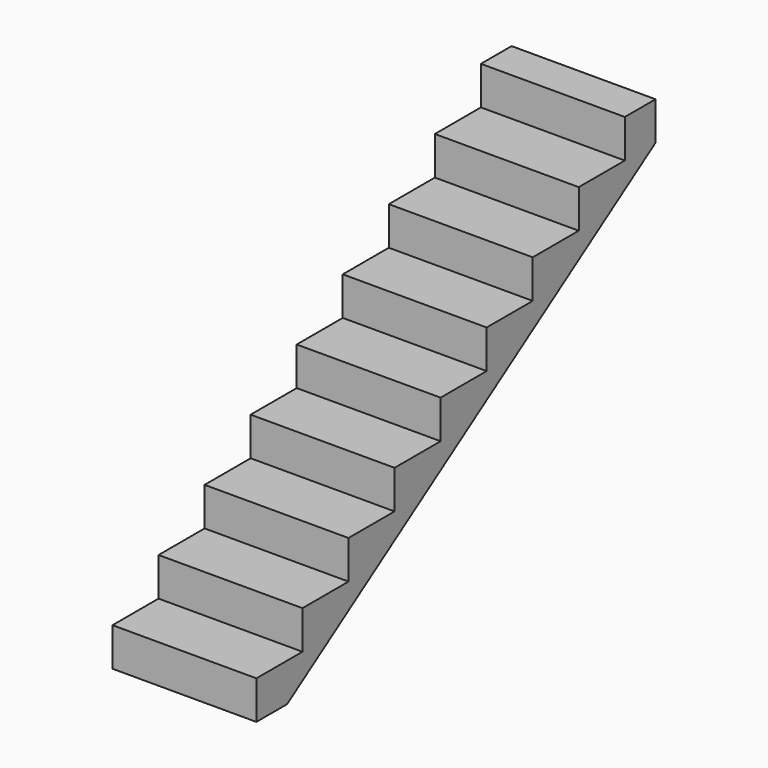
from build123d import *

# Parameters (mm, degrees)
F1_DEPTH = 750


with BuildPart() as f1:
    # F0 (on Right) → F1 (new body)
    with BuildSketch(Plane.YZ):
        Polygon((0, 200), (0, 0), (200, 0), (2600, 1600), (2600, 1800), (2400, 1800), (2400, 1600), (2100, 1600), (2100, 1400), (1800, 1400), (1800, 1200), (1500, 1200), (1500, 1000), (1200, 1000), (1200, 800), (900, 800), (900, 600), (600, 600), (600, 400), (300, 400), (300, 200), align=None)
    extrude(amount=F1_DEPTH)


solid = f1.part
